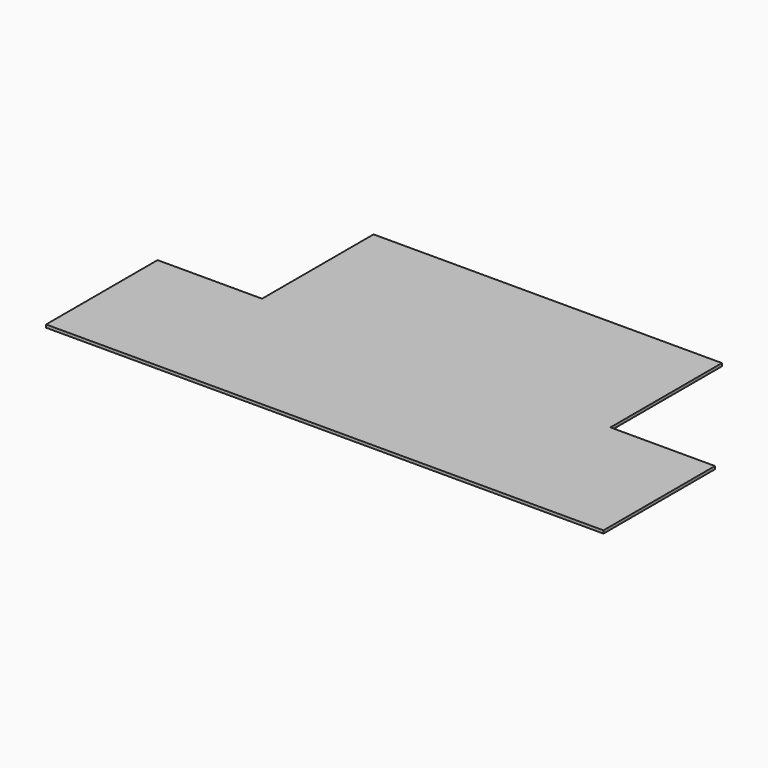
from build123d import *

# Parameters (mm, degrees)
PAD_DEPTH = 25.4


with BuildPart() as part:
    # Sketch → Pad (new body)
    with BuildSketch(Plane.XY):
        Polygon((-2438.4, -1219.2), (-2438.4, 0), (-1524, 0), (-1524, 1219.2), (1524, 1219.2), (1524, 0), (2438.4, 0), (2438.4, -1219.2), align=None)
    extrude(amount=PAD_DEPTH)


solid = part.part
